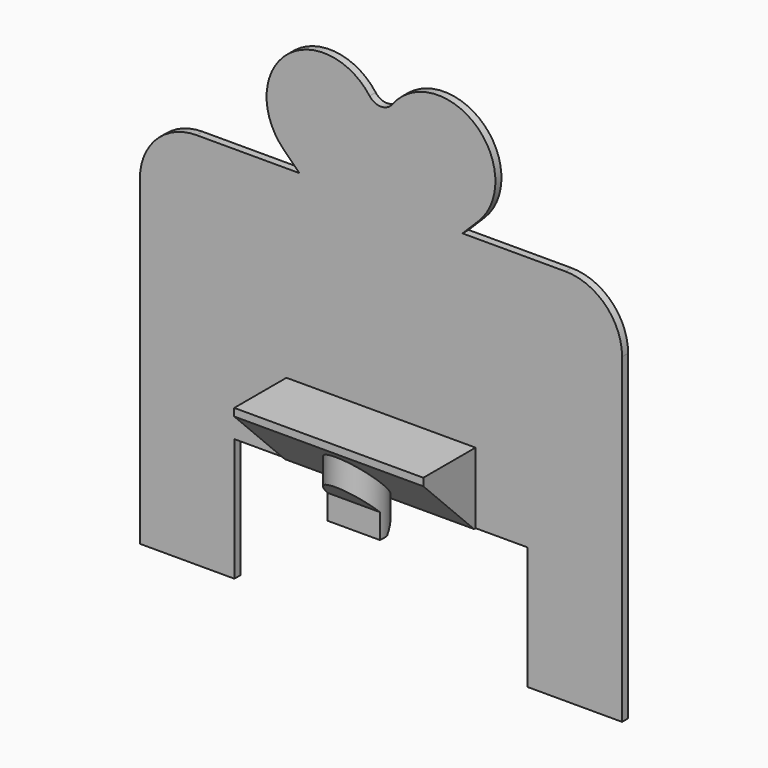
from build123d import *

# Parameters (mm, degrees)
PAD_DEPTH       = 0.8
PAD001_DEPTH    = 10
SKETCH003_R     = 2.8
PAD002_DEPTH    = 9.5
POCKET001_DEPTH = 3
PAD003_DEPTH    = 0.8


with BuildPart() as part:
    # Sketch → Pad (new body)
    with BuildSketch(Plane.XZ):
        with BuildLine():
            Line((-25.5, 13.5), (-25.5, 47.5))
            ThreePointArc((-19.5, 53.5), (-23.742641, 51.742641), (-25.5, 47.5))
            Line((-19.5, 53.5), (19.5, 53.5))
            ThreePointArc((25.5, 47.5), (23.742641, 51.742641), (19.5, 53.5))
            Line((25.5, 47.5), (25.5, 13.5))
            Line((25.5, 13.5), (15.5, 13.5))
            Line((15.5, 13.5), (15.5, 26.5))
            Line((15.5, 26.5), (-15.5, 26.5))
            Line((-15.5, 26.5), (-15.5, 13.5))
            Line((-15.5, 13.5), (-25.5, 13.5))
        make_face()
    extrude(amount=PAD_DEPTH)

    # Sketch001 → Pad001 (join, symmetric)
    with BuildSketch(Plane.YZ):
        Polygon((-1, 26.5), (-7.7, 33.2), (-7.7, 34), (0, 34), (0, 26.5), align=None)
    extrude(amount=PAD001_DEPTH, both=True)

    # Sketch003 (on Face12 of Pad001) → Pad002 (join)
    with BuildSketch(Plane(origin=(0, 0, 34), x_dir=(-1, 0, 0), z_dir=(0, 0, 1))):
        with Locations((0, 4)):
            Circle(SKETCH003_R)
    extrude(amount=-PAD002_DEPTH)

    # Sketch004 → Pocket001 (cut, symmetric)
    with BuildSketch(Plane.YZ):
        Polygon((-1.2, 26.699), (-3.399, 24.5), (-1.2, 24.5), align=None)
        Polygon((-7.7, 30.4), (-7.7, 24.5), (-4.4, 24.5), (-4.4, 27.1), align=None)
    extrude(amount=POCKET001_DEPTH, both=True, mode=Mode.SUBTRACT)

    # Sketch005 (on Face5 of Pocket001) → Pad003 (join)
    with BuildSketch(Plane.XZ.offset(0.8)):
        with BuildLine():
            Line((-7.122628, 52), (-10.327996, 55.205368))
            ThreePointArc((-1.201987, 63.102655), (-10.008916, 64.058239), (-10.327996, 55.205368))
            ThreePointArc((-1.201987, 63.102655), (0, 62.5), (1.201987, 63.102655))
            ThreePointArc((10.327996, 55.205368), (10.008916, 64.058239), (1.201987, 63.102655))
            Line((10.327996, 55.205368), (7.122628, 52))
            Line((7.122628, 52), (-7.122628, 52))
        make_face()
    extrude(amount=-PAD003_DEPTH)


solid = part.part
